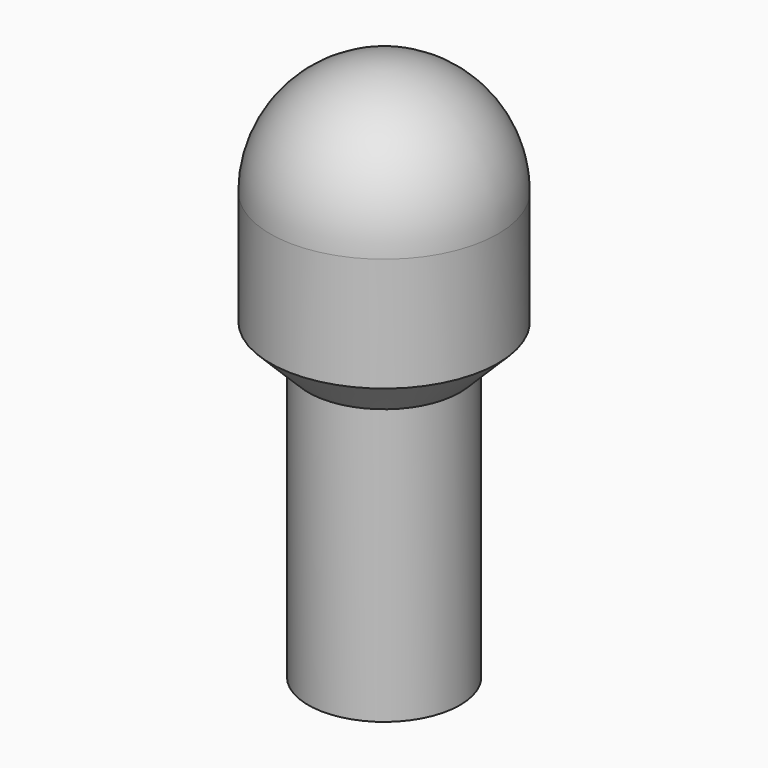
from build123d import *

# Parameters (mm, degrees)
CYLINDER_R        = 3
CYLINDER_DEPTH    = 20
CYLINDER002_R     = 6
CYLINDER002_DEPTH = 6
CYLINDER003_R     = 4
CYLINDER003_DEPTH = 15
CYLINDER005_R     = 3
CYLINDER005_DEPTH = 20
FILLET001_R       = 2


with BuildPart() as cylinder:
    # Cylinder → Cylinder (new body)
    with BuildSketch(Plane.XY):
        Circle(CYLINDER_R)
    extrude(amount=CYLINDER_DEPTH)


with BuildPart() as cone:
    # Cone → Cone (revolve)
    with BuildSketch(Plane(origin=(0, 0, 14.5), x_dir=(1, 0, 0), z_dir=(0, -1, 0))):
        Polygon((0, 0), (4, 0), (6, 2), (0, 2), align=None)
    revolve(axis=Axis((0, 0, 14.5), (0, 0, 1)))


with BuildPart() as cylinder002:
    # Cylinder002 → Cylinder002 (new body)
    with BuildSketch(Plane.XY.offset(16.5)):
        Circle(CYLINDER002_R)
    extrude(amount=CYLINDER002_DEPTH)


with BuildPart() as sphere:
    # Sphere → Sphere (revolve)
    with BuildSketch(Plane(origin=(0, 0, 22.5), x_dir=(1, 0, 0), z_dir=(0, -1, 0))):
        with BuildLine():
            ThreePointArc((0, -6), (6, 0), (0, 6))
            Line((0, 6), (0, -6))
        make_face()
    revolve(axis=Axis((0, 0, 22.5), (0, 0, 1)))


with BuildPart() as cut:
    # Cylinder003 → Cylinder003 (new body)
    with BuildSketch(Plane.XY):
        Circle(CYLINDER003_R)
    extrude(amount=CYLINDER003_DEPTH)

    # Fusion: union Cone, Cylinder002, Sphere
    add(cone.part)
    add(cylinder002.part)
    add(sphere.part)

    # Cut: cut Cylinder
    add(cylinder.part, mode=Mode.SUBTRACT)


with BuildPart() as fillet001:
    # Cylinder005 → Cylinder005 (new body)
    with BuildSketch(Plane.XY):
        Circle(CYLINDER005_R)
    extrude(amount=CYLINDER005_DEPTH)

    # Fillet001
    fillet001_edges = [fillet001.edges().sort_by_distance(p)[0] for p in [
        (-3, 0, 20),
    ]]
    fillet(fillet001_edges, radius=FILLET001_R)


solid = Compound([cut.part, fillet001.part])
